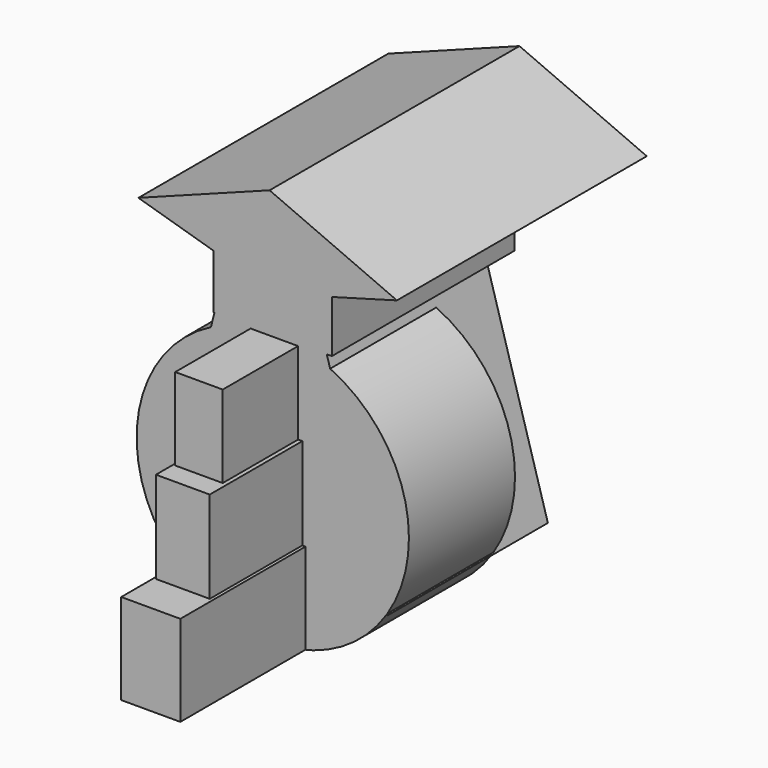
from build123d import *

# Parameters (mm, degrees)
F0_W      = 10.161292
F0_H      = 15.604837
F1_DEPTH  = 26.9
F2_W      = 9.254035
F2_H      = 16.512098
F3_DEPTH  = 19.9
F4_W      = 8.165322
F4_H      = 14.153226
F5_DEPTH  = 16.2
F6_R      = 23.407961
F7_DEPTH  = 22.8
F8_W      = 20.322582
F8_H      = 10.342741
F9_DEPTH  = 39.3
F11_DEPTH = 53.7
F13_DEPTH = 34.4


with BuildPart() as f1:
    # F0 (on Front) → F1 (new body)
    with BuildSketch(Plane.XZ):
        with Locations((-37.379036, -23.58871)):
            Rectangle(F0_W, F0_H)
    extrude(amount=F1_DEPTH)

    # F2 (on Front) → F3 (join)
    with BuildSketch(Plane.XZ):
        with Locations((-37.469761, -8.256049)):
            Rectangle(F2_W, F2_H)
    extrude(amount=F3_DEPTH)

    # F4 (on Front) → F5 (join)
    with BuildSketch(Plane.XZ):
        with Locations((-37.651211, 7.076613)):
            Rectangle(F4_W, F4_H)
    extrude(amount=F5_DEPTH)

    # F6 (on Front) → F7 (join)
    with BuildSketch(Plane.XZ):
        with Locations((-37.923388, -8.709677)):
            Circle(F6_R)
    extrude(amount=-F7_DEPTH)

    # F8 (on Front) → F9 (join)
    with BuildSketch(Plane.XZ):
        with Locations((-37.923389, 19.6875)):
            Rectangle(F8_W, F8_H)
    extrude(amount=-F9_DEPTH)

    # F10 (on Front) → F11 (join)
    with BuildSketch(Plane.XZ):
        Polygon((-61.027735, 27.658321), (-47.339678, 23.627182), (-28.46946, 23.277419), (-16.580516, 26.587443), (-38.470574, 36.135394), align=None)
    extrude(amount=-F11_DEPTH)

    # F12 (on Front) → F13 (join)
    with BuildSketch(Plane.XZ):
        Polygon((-18.145161, -21.592744), (-28.850807, 15.241936), (-47.721777, 15.423387), (-57.157259, -21.592744), align=None)
    extrude(amount=-F13_DEPTH)


solid = f1.part
